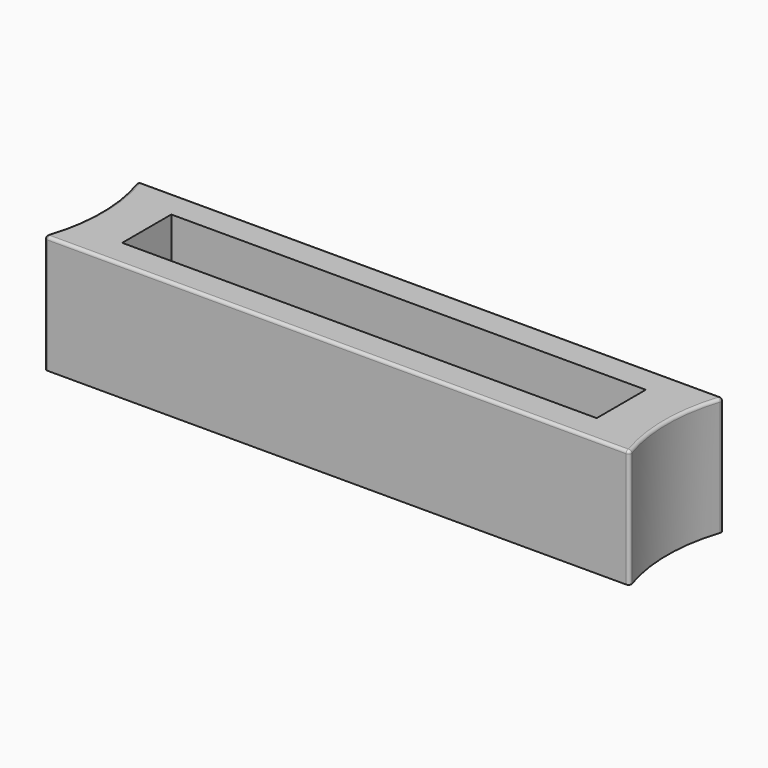
from build123d import *

# Parameters (mm, degrees)
CYLINDER_R        = 30
CYLINDER_DEPTH    = 20
CYLINDER001_R     = 30
CYLINDER001_DEPTH = 20
BOX003_W          = 5.2
BOX003_H          = 10.4
BOX003_DEPTH      = 1
BOX002_W          = 15
BOX002_H          = 2
BOX002_DEPTH      = 3
BOX001_W          = 80.4
BOX001_H          = 10.4
BOX001_DEPTH      = 20
BOX_W             = 100
BOX_H             = 20
BOX_DEPTH         = 20
FILLET_R          = 0.5
FILLET001_R       = 0.5


with BuildPart() as cylinder:
    # Cylinder → Cylinder (new body)
    with BuildSketch(Plane(origin=(-28, 10, 0), x_dir=(1, 0, 0), z_dir=(0, 0, 1))):
        Circle(CYLINDER_R)
    extrude(amount=CYLINDER_DEPTH)


with BuildPart() as cylinder001:
    # Cylinder001 → Cylinder001 (new body)
    with BuildSketch(Plane(origin=(128, 10, 0), x_dir=(1, 0, 0), z_dir=(0, 0, 1))):
        Circle(CYLINDER001_R)
    extrude(amount=CYLINDER001_DEPTH)


with BuildPart() as cube003:
    # Box003 → Box003 (new body)
    with BuildSketch(Plane(origin=(9.8, 4.8, 2), x_dir=(1, 0, 0), z_dir=(0, 0, 1))):
        with Locations((2.6, 5.2)):
            Rectangle(BOX003_W, BOX003_H)
    extrude(amount=BOX003_DEPTH)


with BuildPart() as cube002:
    # Box002 → Box002 (new body)
    with BuildSketch(Plane(origin=(0, 9, 0), x_dir=(1, 0, 0), z_dir=(0, 0, 1))):
        with Locations((7.5, 1)):
            Rectangle(BOX002_W, BOX002_H)
    extrude(amount=BOX002_DEPTH)


with BuildPart() as cube001:
    # Box001 → Box001 (new body)
    with BuildSketch(Plane(origin=(9.8, 4.8, 3), x_dir=(1, 0, 0), z_dir=(0, 0, 1))):
        with Locations((40.2, 5.2)):
            Rectangle(BOX001_W, BOX001_H)
    extrude(amount=BOX001_DEPTH)


with BuildPart() as fillet001:
    # Box → Box (new body)
    with BuildSketch(Plane.XY):
        with Locations((50, 10)):
            Rectangle(BOX_W, BOX_H)
    extrude(amount=BOX_DEPTH)

    # Cut: cut Cube001
    add(cube001.part, mode=Mode.SUBTRACT)

    # Cut001: cut Cube002
    add(cube002.part, mode=Mode.SUBTRACT)

    # Cut002: cut Cube003
    add(cube003.part, mode=Mode.SUBTRACT)

    # Cut003: cut Cylinder001
    add(cylinder001.part, mode=Mode.SUBTRACT)

    # Cut004: cut Cylinder
    add(cylinder.part, mode=Mode.SUBTRACT)

    # Fillet
    fillet_edges = [fillet001.edges().sort_by_distance(p)[0] for p in [
        (99.715729, 20, 10),
        (0.284271, 20, 10),
        (99.715729, 0, 10),
        (0.284271, 0, 10),
    ]]
    fillet(fillet_edges, radius=FILLET_R)

    # Fillet001
    fillet001_edges = [fillet001.edges().sort_by_distance(p)[0] for p in [
        (50, 20, 20),
        (0.577865, 19.793369, 20),
        (99.422135, 19.793369, 20),
        (1.624557, 14.731343, 20),
        (98, 10, 20),
        (1.624557, 5.268657, 20),
        (99.422135, 0.206631, 20),
        (0.577865, 0.206631, 20),
        (50, 0, 20),
    ]]
    fillet(fillet001_edges, radius=FILLET001_R)


solid = fillet001.part
